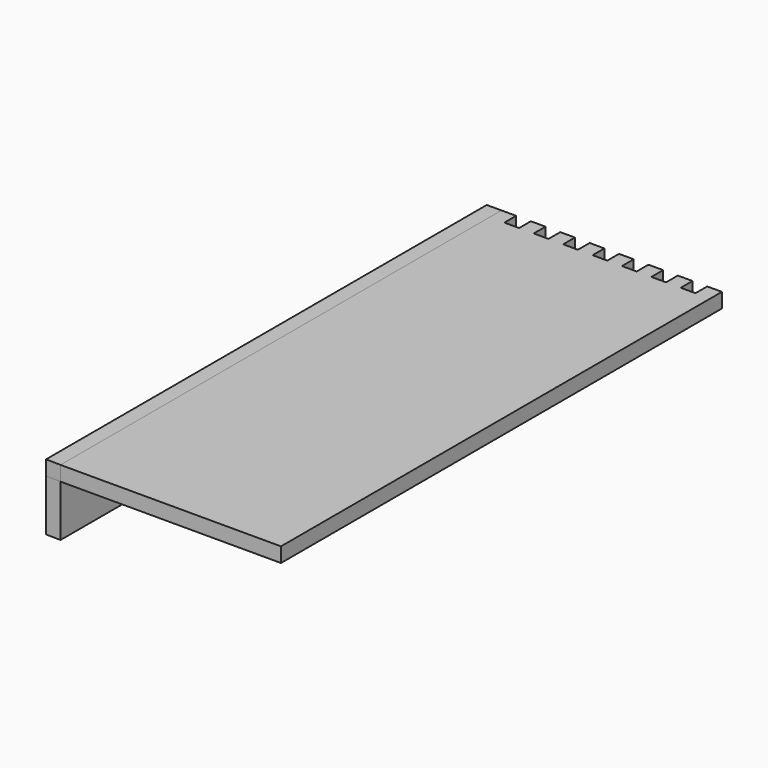
from build123d import *

# Parameters (mm, degrees)
F1_DEPTH = 2
F2_DEPTH = 7
F3_DEPTH = 2


with BuildPart() as f1:
    # F0 (on Top) → F1 (new body)
    with BuildSketch(Plane.XY):
        Polygon((-15, 37.5), (-15, -37.5), (15, -37.5), (15, 37.5), (13, 37.5), (13, 35.5), (11, 35.5), (11, 37.5), (9, 37.5), (9, 35.5), (7, 35.5), (7, 37.5), (5, 37.5), (5, 35.5), (3, 35.5), (3, 37.5), (1, 37.5), (1, 35.5), (-1, 35.5), (-1, 37.5), (-3, 37.5), (-3, 35.5), (-5, 35.5), (-5, 37.5), (-7, 37.5), (-7, 35.5), (-9, 35.5), (-9, 37.5), (-11, 37.5), (-11, 35.5), (-13, 35.5), (-13, 37.5), align=None)
    extrude(amount=F1_DEPTH)

    # F0 (on Top) → F2 (join)
    with BuildSketch(Plane.XY):
        Polygon((-17, -37.451595), (-15, -37.5), (-15, 37.5), (-17, 37.5), align=None)
    extrude(amount=-F2_DEPTH)


with BuildPart() as f3:
    # F0 (on Top) → F3 (new body)
    with BuildSketch(Plane.XY):
        Polygon((-17, -37.451595), (-15, -37.5), (-15, 37.5), (-17, 37.5), align=None)
    extrude(amount=F3_DEPTH)


solid = Compound([f1.part, f3.part])
